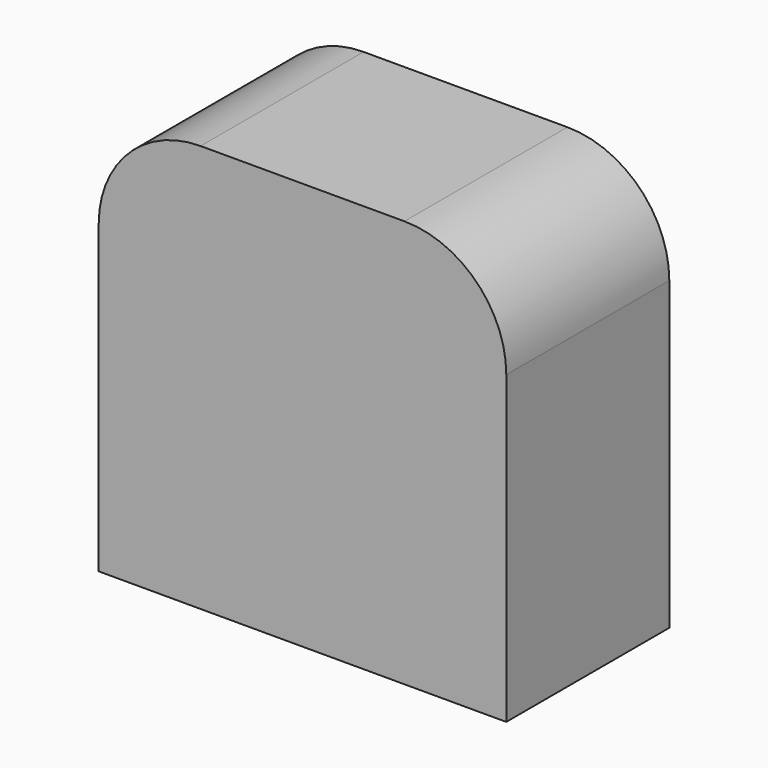
from build123d import *

# Parameters (mm, degrees)
F1_DEPTH = 25.4
F3_DEPTH = 25.4


with BuildPart() as f1:
    # F0 (on Front) → F1 (new body)
    with BuildSketch(Plane.XZ):
        with BuildLine():
            Line((0, 38.1), (0, 0))
            Line((0, 0), (50.8, 0))
            Line((50.8, 0), (50.8, 38.1))
            ThreePointArc((50.8, 38.1), (47.080256, 47.080256), (38.1, 50.8))
            Line((38.1, 50.8), (12.7, 50.8))
            ThreePointArc((12.7, 50.8), (3.719744, 47.080256), (0, 38.1))
        make_face()
    extrude(amount=F1_DEPTH)

    # F2 (on Front) → F3 (join)
    with BuildSketch(Plane.XZ):
        Polygon((17.737616, 7.724446), (17.737616, 0), (39.861955, 0), (39.861955, 7.724446), (30.707058, 7.724446), (30.707058, 12.492622), (23.459429, 12.492622), (23.459429, 7.724446), align=None)
    extrude(amount=F3_DEPTH)


solid = f1.part
